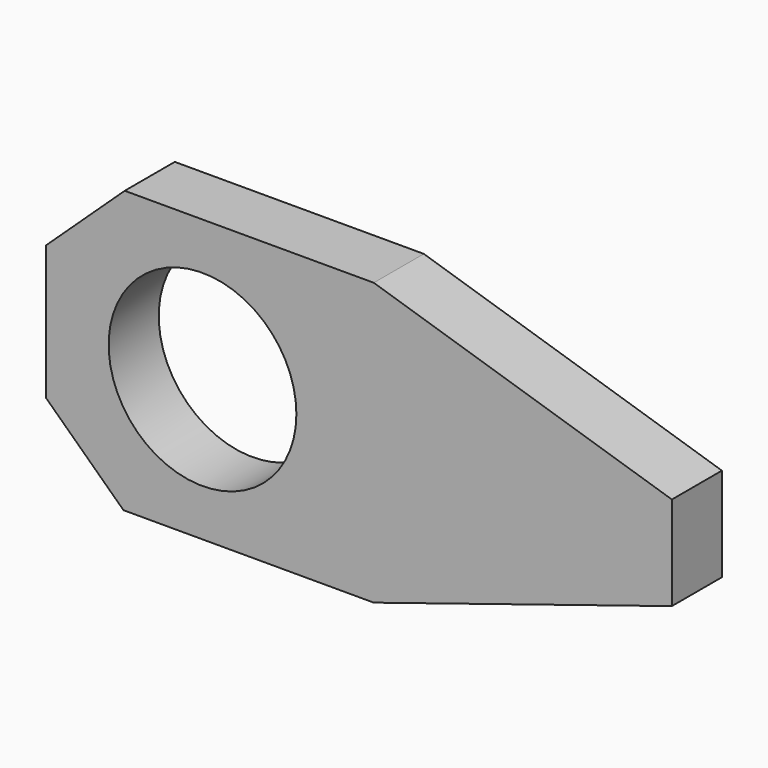
from build123d import *

# Parameters (mm, degrees)
F1_DEPTH = 25.4
F2_R     = 38.1
F3_DEPTH = 25.4


with BuildPart() as f1:
    # F0 (on Front) → F1 (new body)
    with BuildSketch(Plane.XZ):
        Polygon((56.034924, 76.2), (-45.050218, 76.19884), (-76.971513, 46.336978), (-76.971513, -8.238141), (-45.565076, -38.1), (56.034924, -38.1), (177.028487, 0), (177.028487, 38.1), align=None)
    extrude(amount=F1_DEPTH)

    # F2 (on face) → F3 (cut)
    with BuildSketch(Plane.XZ.offset(25.4)):
        with Locations((-13.471513, 19.05)):
            Circle(F2_R)
    extrude(amount=-F3_DEPTH, mode=Mode.SUBTRACT)


solid = f1.part
